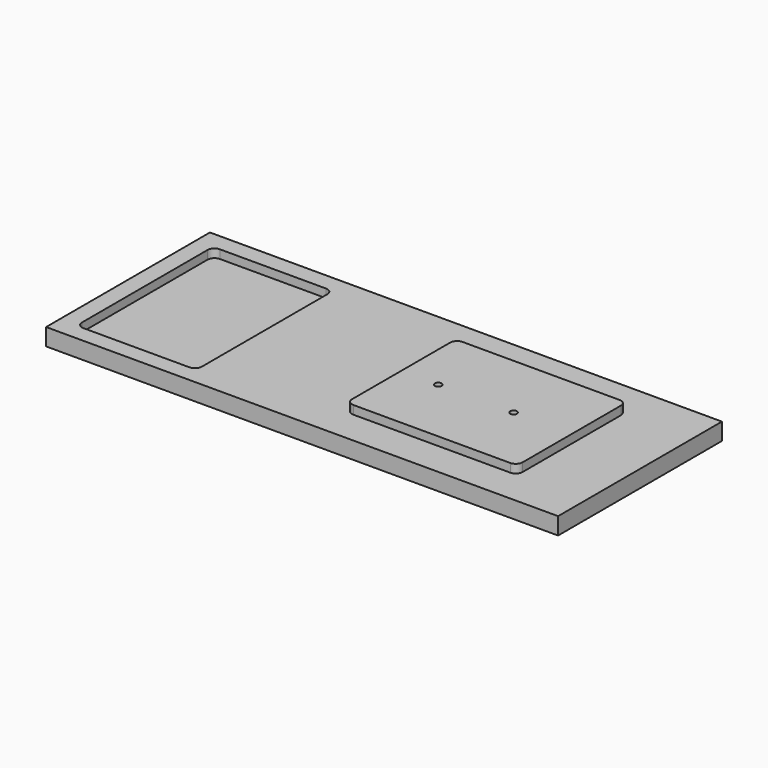
from build123d import *

# Parameters (mm, degrees)
F0_W     = 381
F0_H     = 152.4
F1_DEPTH = 12.7
F2_W     = 89.1376596271
F2_H     = 127
F3_DEPTH = 6.35
F4_R     = 5.08
F5_W     = 127
F5_H     = 101.6
F6_DEPTH = 6.35
F7_R     = 5.08
F9_D     = 5.1054


with BuildPart() as f1:
    # F0 (on Top) → F1 (new body)
    with BuildSketch(Plane.XY):
        Rectangle(F0_W, F0_H)
    extrude(amount=F1_DEPTH)

    # F2 (on face) → F3 (cut)
    with BuildSketch(Plane.XY.offset(12.7)):
        with Locations((-133.2311701864, -0.2413299241)):
            Rectangle(F2_W, F2_H)
    extrude(amount=-F3_DEPTH, mode=Mode.SUBTRACT)

    # F4
    f4_edges = [f1.edges().sort_by_distance(p)[0] for p in [
        (-177.8, 63.25867, 9.525),
        (-177.8, -63.74133, 9.525),
        (-88.66234, 63.25867, 9.525),
        (-88.66234, -63.74133, 9.525),
    ]]
    fillet(f4_edges, radius=F4_R)

    # F5 (on face) → F6 (join)
    with BuildSketch(Plane.XY.offset(12.7)):
        with Locations((76.2, 0)):
            Rectangle(F5_W, F5_H)
    extrude(amount=F6_DEPTH)

    # F7
    f7_edges = [f1.edges().sort_by_distance(p)[0] for p in [
        (12.7, -50.8, 15.875),
        (139.7, -50.8, 15.875),
        (139.7, 50.8, 15.875),
        (12.7, 50.8, 15.875),
    ]]
    fillet(f7_edges, radius=F7_R)

    # F9 (through all)
    with Locations(Plane.XY.offset(19.05)):
        with Locations((40.3518900275, 0), (96.4727550745, 0)):
            Hole(F9_D / 2)


solid = f1.part
